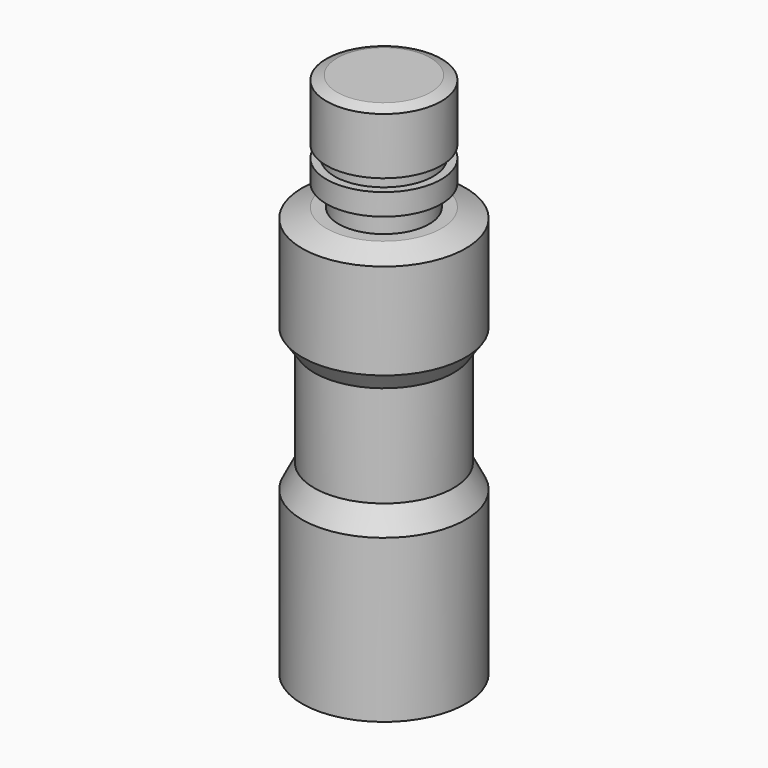
from build123d import *


with BuildPart() as f1:
    # F0 (on Front) → F1 (revolve)
    with BuildSketch(Plane.XZ):
        Polygon((-11.47063, 0), (0, 0), (0, 73.848091), (-6.541103, 73.848091), (-8.057879, 73.249364), (-8.057879, 65.316223), (-6.920297, 65.316223), (-6.920297, 63.609846), (-8.057879, 63.609846), (-8.057879, 60.57629), (-6.351505, 60.57629), (-6.351505, 57.542738), (-8.057879, 57.542738), (-11.47063, 56.193408), (-11.47063, 42.754158), (-9.764254, 40.289398), (-9.764254, 26.069609), (-11.47063, 22.720061), align=None)
    revolve(axis=Axis((0, 0, 36.924046), (0, 0, -1)))


solid = f1.part
